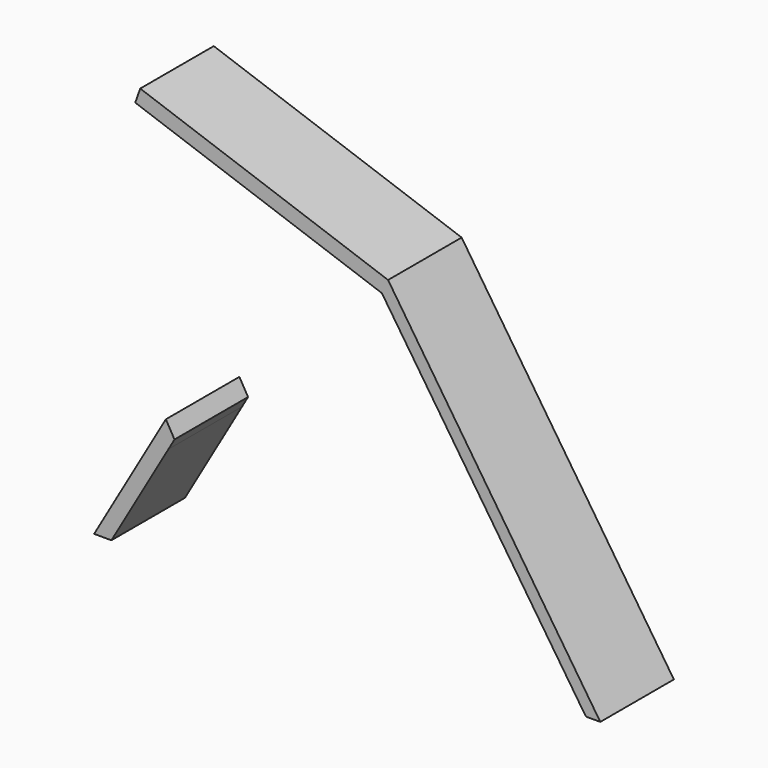
from build123d import *

# Parameters (mm, degrees)
F1_DEPTH = 25


with BuildPart() as f1:
    # F0 (on Front) → F1 (new body)
    with BuildSketch(Plane.XZ):
        Polygon((13.89865, 28.091678), (69.368124, -55.212756), (73.281549, -55.213907), (15.577925, 31.789838), (-51.805659, 55.700144), (-53.158953, 51.886314), align=None)
        Polygon((-64.338015, -54.9684), (-59.638015, -54.9684), (-44.140906, -28.126619), (-42.488015, -25.263728), (-44.838015, -21.193409), (-45.53734, -22.404676), (-46.837334, -24.656332), align=None)
    extrude(amount=F1_DEPTH)


solid = f1.part
